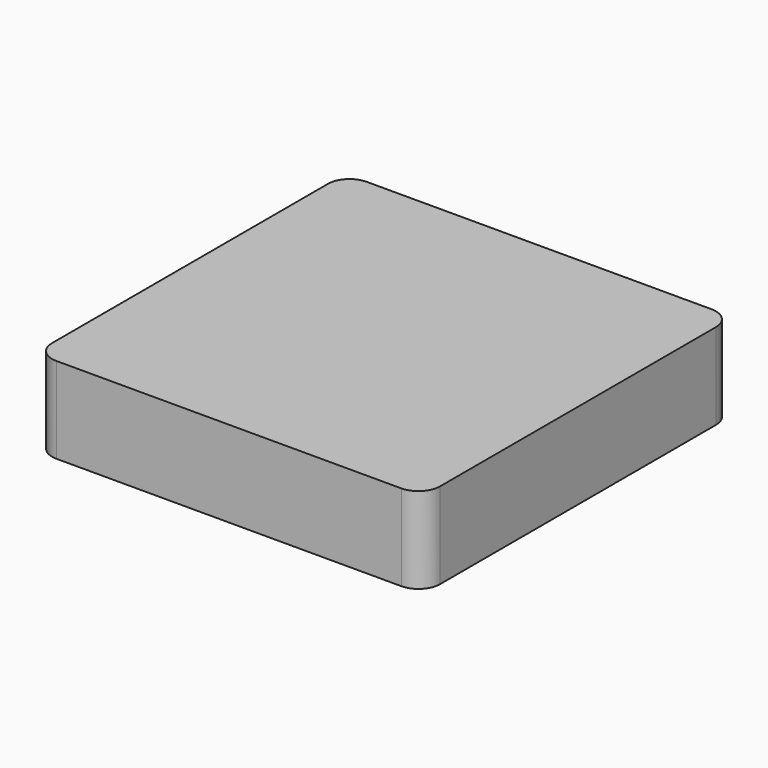
from build123d import *

# Parameters (mm, degrees)
F0_W     = 86.1
F0_H     = 86.1
F1_DEPTH = 2
F0_W_2   = 88.1
F0_H_2   = 88.1
F2_DEPTH = 8
F0_W_3   = 90.1
F0_H_3   = 90.1
F3_DEPTH = 20
F4_R     = 5


with BuildPart() as f1:
    # F0 (on Top) → F1 (new body)
    with BuildSketch(Plane.XY):
        Rectangle(F0_W, F0_H)
    extrude(amount=-F1_DEPTH)

    # F0 (on Top) → F2 (join)
    with BuildSketch(Plane.XY):
        Rectangle(F0_W_2, F0_H_2)
        Rectangle(F0_W, F0_H, mode=Mode.SUBTRACT)
    extrude(amount=-F2_DEPTH)

    # F0 (on Top) → F3 (join)
    with BuildSketch(Plane.XY):
        Rectangle(F0_W_3, F0_H_3)
        Rectangle(F0_W_2, F0_H_2, mode=Mode.SUBTRACT)
    extrude(amount=-F3_DEPTH)

    # F4
    f4_edges = [f1.edges().sort_by_distance(p)[0] for p in [
        (-43.05, -43.05, -5),
        (-44.05, -44.05, -14),
        (43.05, -43.05, -5),
        (44.05, -44.05, -14),
        (43.05, 43.05, -5),
        (44.05, 44.05, -14),
        (-43.05, 43.05, -5),
        (-44.05, 44.05, -14),
        (45.05, -45.05, -10),
        (45.05, 45.05, -10),
        (-45.05, -45.05, -10),
        (-45.05, 45.05, -10),
    ]]
    fillet(f4_edges, radius=F4_R)


solid = f1.part
